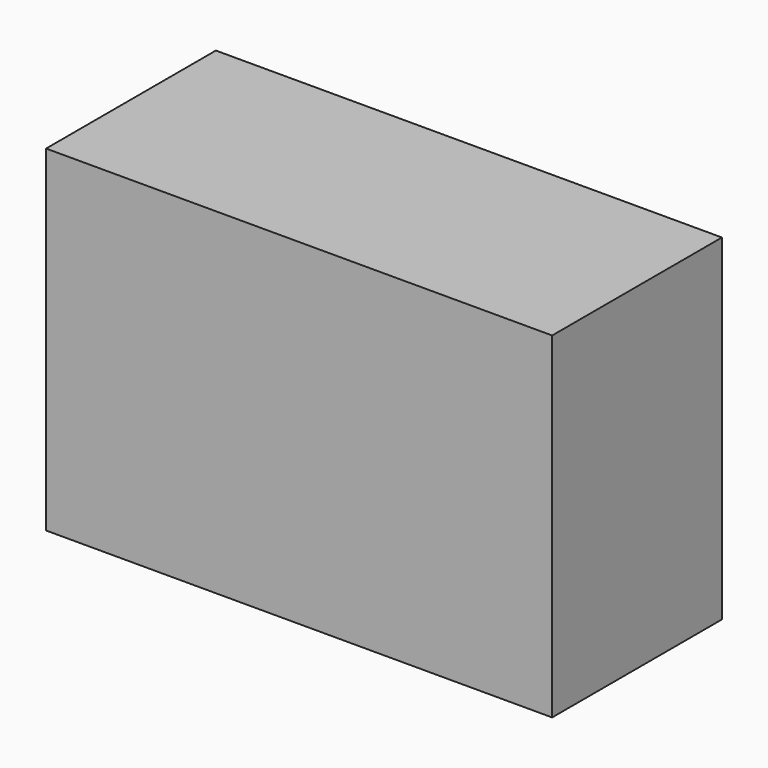
from build123d import *

# Parameters (mm, degrees)
SKETCH_W      = 155
SKETCH_H      = 65
SKETCH_R      = 2.5
SKETCH_W_2    = 72
SKETCH_H_2    = 25
PAD_DEPTH     = 3
SKETCH001_W   = 149
SKETCH001_H   = 59
SKETCH001_W_2 = 143
SKETCH001_H_2 = 53
PAD001_DEPTH  = 3
SKETCH002_R   = 1.5
SKETCH002_R_2 = 2.5
PAD002_DEPTH  = 3
SKETCH003_W   = 155
SKETCH003_H   = 65
PAD003_DEPTH  = 3
SKETCH004_W   = 155
SKETCH004_H   = 65
SKETCH004_W_2 = 150
SKETCH004_H_2 = 60
PAD004_DEPTH  = 100
SKETCH005_W   = 15
SKETCH005_H   = 22
POCKET_DEPTH  = 5


with BuildPart() as lid:
    # Sketch → Pad (new body)
    with BuildSketch(Plane.XY):
        with Locations((-77.5, -32.5)):
            Rectangle(SKETCH_W, SKETCH_H)
        with Locations((-120, -15)):
            Circle(SKETCH_R, mode=Mode.SUBTRACT)
        with Locations((-112, -15)):
            Circle(SKETCH_R, mode=Mode.SUBTRACT)
        with Locations((-104, -15)):
            Circle(SKETCH_R, mode=Mode.SUBTRACT)
        with Locations((-96, -15)):
            Circle(SKETCH_R, mode=Mode.SUBTRACT)
        with Locations((-48, -30.5)):
            Rectangle(SKETCH_W_2, SKETCH_H_2, mode=Mode.SUBTRACT)
    extrude(amount=PAD_DEPTH)

    # Sketch001 (on Face13 of Pad) → Pad001 (join)
    with BuildSketch(Plane(origin=(0, 0, 0), x_dir=(1, 0, 0), z_dir=(0, 0, -1))):
        with Locations((-77.5, 32.5)):
            Rectangle(SKETCH001_W, SKETCH001_H)
        with Locations((-77.5, 32.5)):
            Rectangle(SKETCH001_W_2, SKETCH001_H_2, mode=Mode.SUBTRACT)
    extrude(amount=PAD001_DEPTH)

    # Sketch002 (on Face20 of Pad001) → Pad002 (join)
    with BuildSketch(Plane(origin=(0, 0, 0), x_dir=(1, 0, 0), z_dir=(0, 0, -1))):
        with Locations((-142.5, 43.5)):
            Circle(SKETCH002_R)
        with Locations((-142.5, 11.5)):
            Circle(SKETCH002_R)
        with Locations((-92.5, 43.5)):
            Circle(SKETCH002_R)
        with Locations((-92.5, 11.5)):
            Circle(SKETCH002_R)
        with Locations((-87.5, 46.5)):
            Circle(SKETCH002_R_2)
        with Locations((-8.5, 46.5)):
            Circle(SKETCH002_R_2)
        with Locations((-8.5, 14.5)):
            Circle(SKETCH002_R_2)
        with Locations((-87.5, 14.5)):
            Circle(SKETCH002_R_2)
    extrude(amount=PAD002_DEPTH)


with BuildPart() as box:
    # Sketch003 → Pad003 (new body)
    with BuildSketch(Plane.XY):
        with Locations((-77.5, -32.5)):
            Rectangle(SKETCH003_W, SKETCH003_H)
    extrude(amount=PAD003_DEPTH)

    # Sketch004 (on Face5 of Pad003) → Pad004 (join)
    with BuildSketch(Plane(origin=(0, 0, 0), x_dir=(1, 0, 0), z_dir=(0, 0, -1))):
        with Locations((-77.5, 32.5)):
            Rectangle(SKETCH004_W, SKETCH004_H)
        with Locations((-77.5, 32.5)):
            Rectangle(SKETCH004_W_2, SKETCH004_H_2, mode=Mode.SUBTRACT)
    extrude(amount=PAD004_DEPTH)

    # Sketch005 (on Face7 of Pad004) → Pocket (cut)
    with BuildSketch(Plane(origin=(-155, 0, 0), x_dir=(0, -1, 0), z_dir=(-1, 0, 0))):
        with Locations((27.5, -89)):
            Rectangle(SKETCH005_W, SKETCH005_H)
    extrude(amount=-POCKET_DEPTH, mode=Mode.SUBTRACT)


solid = Compound([lid.part, box.part])
